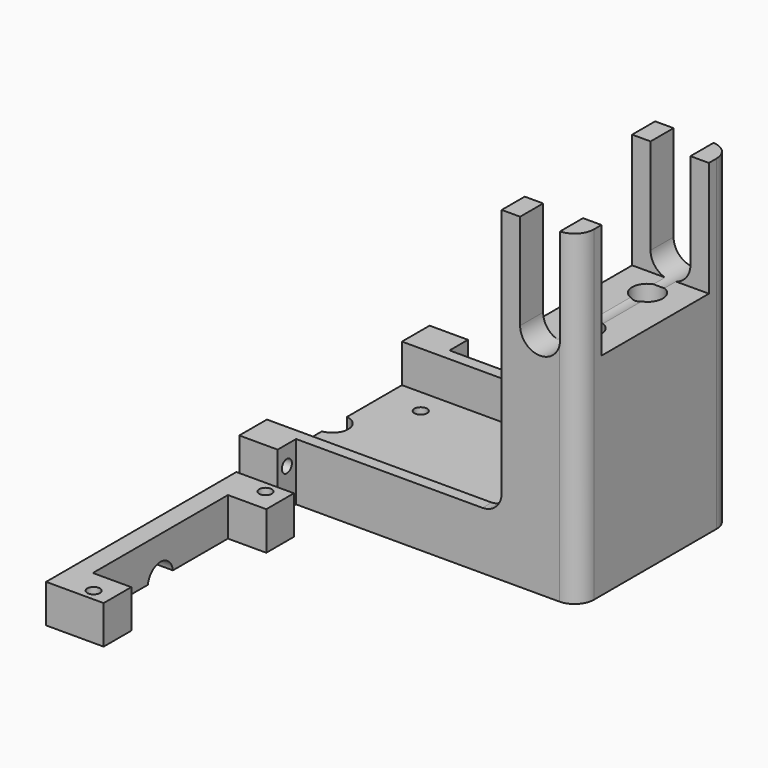
from build123d import *

# Parameters (mm, degrees)
F0_W      = 80
F0_H      = 50
F1_DEPTH  = 5
F3_DEPTH  = 10
F2_W      = 17
F2_H      = 44
F4_DEPTH  = 80
F5_D      = 3.3
F6_DEPTH  = 3.6
F8_DEPTH  = 25
F7_W      = 10
F7_H      = 6
F9_DEPTH  = 15
F10_R     = 1.65
F11_DEPTH = 25
F13_DEPTH = 10
F15_DEPTH = 25
F16_R     = 1.65
F17_DEPTH = 25
F19_W     = 20
F19_H     = 35
F20_DEPTH = 30
F21_DEPTH = 80
F22_R     = 4
F23_DEPTH = 60
F24_R     = 5


with BuildPart() as f1:
    # F0 (on Top) → F1 (new body)
    with BuildSketch(Plane.XY):
        with Locations((40, 25)):
            Rectangle(F0_W, F0_H)
    extrude(amount=F1_DEPTH)

    # F2 (on face) → F3 (join)
    with BuildSketch(Plane.XY.offset(5)):
        Polygon((0, 47), (3, 47), (60, 47), (60, 50), (0, 50), align=None)
        Polygon((60, 0), (60, 3), (3, 3), (0, 3), (0, 0), align=None)
    extrude(amount=F3_DEPTH)

    # F2 (on face) → F4 (join)
    with BuildSketch(Plane.XY.offset(5)):
        with Locations((68.5, 25)):
            Rectangle(F2_W, F2_H)
        Polygon((60, 50), (60, 47), (77, 47), (77, 3), (60, 3), (60, 0), (80, 0), (80, 50), align=None)
    extrude(amount=F4_DEPTH)

    # F5 (through all)
    with Locations(Plane.XY.offset(5)):
        with Locations((37.5, 40.5), (37.5, 9.5), (6.5, 9.5), (6.5, 40.5)):
            Hole(F5_D / 2)

    # F6 (add): a face of the model
    f6_faces = [f1.faces().sort_by_distance(p)[0] for p in [
        (0, 25, 3.9516129032),
    ]]
    extrude(f6_faces, amount=F6_DEPTH)

    # F7 (on face) → F8 (cut)
    with BuildSketch(Plane(origin=(0, 0, 0), x_dir=(1, 0, 0), z_dir=(0, 0, -1))):
        with BuildLine():
            ThreePointArc((-3.6, -29.0693979899), (-1.0291694934, -27.7166155414), (0, -25))
            ThreePointArc((0, -25), (-1.0291694934, -22.2833844586), (-3.6, -20.9306020101))
            Line((-3.6, -20.9306020101), (-3.6, -25))
            Line((-3.6, -25), (-3.6, -29.0693979899))
        make_face()
    extrude(amount=-F8_DEPTH, mode=Mode.SUBTRACT)

    # F7 (on face) → F9 (join)
    with BuildSketch(Plane(origin=(0, 0, 0), x_dir=(1, 0, 0), z_dir=(0, 0, -1))):
        with Locations((1.4, 3)):
            Rectangle(F7_W, F7_H)
        with Locations((1.4, -53)):
            Rectangle(F7_W, F7_H)
    extrude(amount=-F9_DEPTH)

    # F10 (on face) → F11 (cut)
    with BuildSketch(Plane(origin=(-3.6, 0, 0), x_dir=(0, -1, 0), z_dir=(-1, 0, 0))):
        with Locations((3, 10)):
            Circle(F10_R)
        with Locations((-53, 10)):
            Circle(F10_R)
    extrude(amount=-F11_DEPTH, mode=Mode.SUBTRACT)

    # F19 (on face) → F20 (cut)
    with BuildSketch(Plane.XY.offset(85)):
        with Locations((70, 25)):
            Rectangle(F19_W, F19_H)
    extrude(amount=-F20_DEPTH, mode=Mode.SUBTRACT)

    # F18 (on face) → F21 (cut)
    with BuildSketch(Plane(origin=(0, 50, 0), x_dir=(-1, 0, 0), z_dir=(0, 1, 0))):
        with BuildLine():
            ThreePointArc((-75.1941809589, 60.2459352893), (-70.1230020607, 54.8014549638), (-64.8, 60))
            ThreePointArc((-64.8, 60), (-69.8769979393, 65.1985450362), (-75.1941809589, 60.2459352893))
        make_face()
        with BuildLine():
            ThreePointArc((-75.1941809589, 60.2459352893), (-69.8769979393, 65.1985450362), (-64.8, 60))
            Line((-64.8, 60), (-64.8, 85))
            Line((-64.8, 85), (-75.1941809589, 85))
            Line((-75.1941809589, 85), (-75.1941809589, 60.2459352893))
        make_face()
    extrude(amount=-F21_DEPTH, mode=Mode.SUBTRACT)

    # F22 (on face) → F23 (cut)
    with BuildSketch(Plane(origin=(0, 0, 0), x_dir=(1, 0, 0), z_dir=(0, 0, -1))):
        with Locations((70, -15)):
            Circle(F22_R)
        with Locations((70, -35)):
            Circle(F22_R)
    extrude(amount=-F23_DEPTH, mode=Mode.SUBTRACT)

    # F24
    f24_edges = [f1.edges().sort_by_distance(p)[0] for p in [
        (80, 50, 42.5),
        (80, 0, 42.5),
        (60, 47, 10),
        (60, 3, 10),
        (60, 1.5, 15),
        (60, 48.5, 15),
    ]]
    fillet(f24_edges, radius=F24_R)


with BuildPart() as f13:
    # F12 (on Top) → F13 (new body)
    with BuildSketch(Plane.XY):
        Polygon((15, -11.4509467413), (0, -11.4509467413), (0, -73.4509467413), (15, -73.4509467413), (15, -64.4509467413), (5, -64.4509467413), (5, -42.4509467413), (5, -20.4509467413), (15, -20.4509467413), align=None)
    extrude(amount=F13_DEPTH)

    # F14 (on face) → F15 (cut)
    with BuildSketch(Plane.YZ.offset(5)):
        with BuildLine():
            Line((-46.5203447312, 0), (-38.3815487515, 0))
            ThreePointArc((-38.3815487515, 0), (-42.4509467413, 3.6), (-46.5203447312, 0))
        make_face()
    extrude(amount=-F15_DEPTH, mode=Mode.SUBTRACT)

    # F16 (on face) → F17 (cut)
    with BuildSketch(Plane.XY.offset(10)):
        with Locations((10, -14.4509467413)):
            Circle(F16_R)
        with Locations((10, -70.4509467413)):
            Circle(F16_R)
    extrude(amount=-F17_DEPTH, mode=Mode.SUBTRACT)


solid = Compound([f1.part, f13.part])
